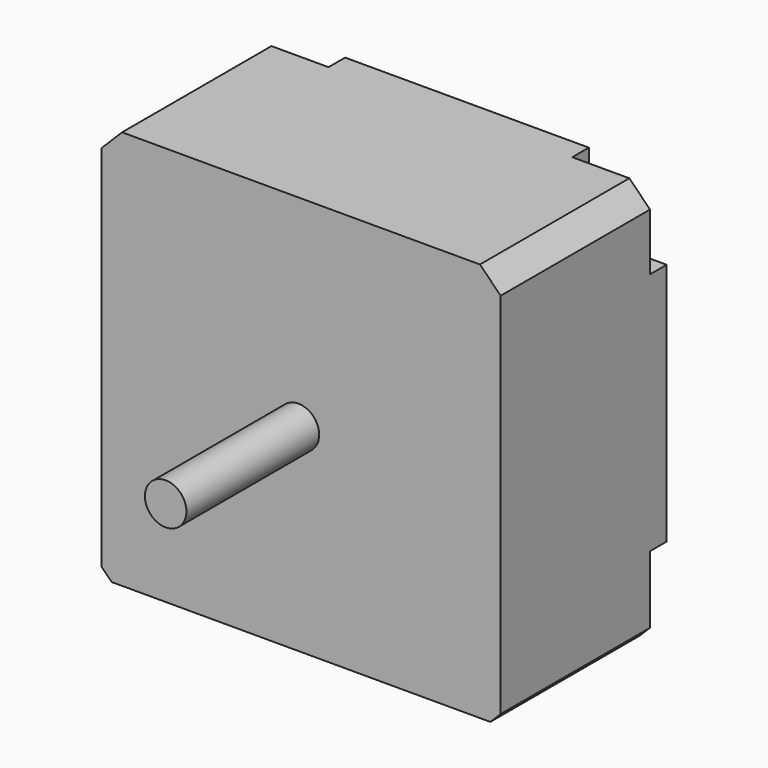
from build123d import *

# Parameters (mm, degrees)
CYLINDER007_R          = 2
CYLINDER007_DEPTH      = 36
CYLINDER007_ROLL_ANGLE = -90
CYLINDER004_R          = 5
CYLINDER004_DEPTH      = 31
CYLINDER004_ROLL_ANGLE = -90
CYLINDER002_R          = 10
CYLINDER002_DEPTH      = 11
CYLINDER002_ROLL_ANGLE = -90
CYLINDER003_R          = 5
CYLINDER003_DEPTH      = 19
CYLINDER003_ROLL_ANGLE = -90
CYLINDER001_R          = 5
CYLINDER001_DEPTH      = 31
CYLINDER001_ROLL_ANGLE = -90
BOX015_W               = 7.5
BOX015_H               = 3
BOX015_DEPTH           = 7.5
FILLET001_R            = 2
BOX017_W               = 7.5
BOX017_H               = 3
BOX017_DEPTH           = 7.5
FILLET002_R            = 2
BOX016_W               = 7.5
BOX016_H               = 3
BOX016_DEPTH           = 7.5
FILLET003_R            = 2
BOX014_W               = 7.5
BOX014_H               = 3
BOX014_DEPTH           = 7.5
FILLET_R               = 2
BOX012_W               = 38.5
BOX012_H               = 20
BOX012_DEPTH           = 38.5
CHAMFER_SIZE           = 2
CHAMFER001_1_SIZE      = 2
CHAMFER001_2_SIZE      = 1


with BuildPart() as eje_motor001:
    # Cylinder007 → Cylinder007 (new body)
    with BuildSketch(Plane.XY):
        Circle(CYLINDER007_R)
    extrude(amount=CYLINDER007_DEPTH)


with BuildPart() as eje_motor001_1:
    # Cylinder007 roll: moved
    add(eje_motor001.part.rotate(Axis((0, 0, 0), (1, 0, 0)), CYLINDER007_ROLL_ANGLE))


with BuildPart() as eje_motor001_2:
    # Cylinder007 placement: moved
    add(eje_motor001_1.part.moved(Location((379, 9, 11))))


with BuildPart() as cilindro015:
    # Cylinder004 → Cylinder004 (new body)
    with BuildSketch(Plane.XY):
        Circle(CYLINDER004_R)
    extrude(amount=CYLINDER004_DEPTH)


with BuildPart() as cilindro015_1:
    # Cylinder004 roll: moved
    add(cilindro015.part.rotate(Axis((0, 0, 0), (1, 0, 0)), CYLINDER004_ROLL_ANGLE))


with BuildPart() as cilindro015_2:
    # Cylinder004 placement: moved
    add(cilindro015_1.part.moved(Location((379, 55, 11))))


with BuildPart() as obj1:
    # Cylinder002 → Cylinder002 (new body)
    with BuildSketch(Plane.XY):
        Circle(CYLINDER002_R)
    extrude(amount=CYLINDER002_DEPTH)


with BuildPart() as obj1_1:
    # Cylinder002 roll: moved
    add(obj1.part.rotate(Axis((0, 0, 0), (1, 0, 0)), CYLINDER002_ROLL_ANGLE))


with BuildPart() as obj1_2:
    # Cylinder002 placement: moved
    add(obj1_1.part.moved(Location((379, 69, 11))))

    # Cut009: cut Cilindro015
    add(cilindro015_2.part, mode=Mode.SUBTRACT)


with BuildPart() as obj1_3:
    # Cut009 placement: moved
    add(obj1_2.part.moved(Location((0, -34, 0))))


with BuildPart() as dentro_motor:
    # Cylinder003 → Cylinder003 (new body)
    with BuildSketch(Plane.XY):
        Circle(CYLINDER003_R)
    extrude(amount=CYLINDER003_DEPTH)


with BuildPart() as dentro_motor_1:
    # Cylinder003 roll: moved
    add(dentro_motor.part.rotate(Axis((0, 0, 0), (1, 0, 0)), CYLINDER003_ROLL_ANGLE))


with BuildPart() as dentro_motor_2:
    # Cylinder003 placement: moved
    add(dentro_motor_1.part.moved(Location((379, 25, 11))))


with BuildPart() as cilindro012:
    # Cylinder001 → Cylinder001 (new body)
    with BuildSketch(Plane.XY):
        Circle(CYLINDER001_R)
    extrude(amount=CYLINDER001_DEPTH)


with BuildPart() as cilindro012_1:
    # Cylinder001 roll: moved
    add(cilindro012.part.rotate(Axis((0, 0, 0), (1, 0, 0)), CYLINDER001_ROLL_ANGLE))


with BuildPart() as cilindro012_2:
    # Cylinder001 placement: moved
    add(cilindro012_1.part.moved(Location((379, 21, 11))))


with BuildPart() as fillet001:
    # Box015 → Box015 (new body)
    with BuildSketch(Plane(origin=(391, 43, -8), x_dir=(1, 0, 0), z_dir=(0, 0, 1))):
        with Locations((3.75, 1.5)):
            Rectangle(BOX015_W, BOX015_H)
    extrude(amount=BOX015_DEPTH)

    # Fillet001
    fillet001_edges = [fillet001.edges().sort_by_distance(p)[0] for p in [
        (391, 44.5, -0.5),
    ]]
    fillet(fillet001_edges, radius=FILLET001_R)


with BuildPart() as fillet002:
    # Box017 → Box017 (new body)
    with BuildSketch(Plane(origin=(360, 43, -8), x_dir=(1, 0, 0), z_dir=(0, 0, 1))):
        with Locations((3.75, 1.5)):
            Rectangle(BOX017_W, BOX017_H)
    extrude(amount=BOX017_DEPTH)

    # Fillet002
    fillet002_edges = [fillet002.edges().sort_by_distance(p)[0] for p in [
        (367.5, 44.5, -0.5),
    ]]
    fillet(fillet002_edges, radius=FILLET002_R)


with BuildPart() as fillet003:
    # Box016 → Box016 (new body)
    with BuildSketch(Plane(origin=(360, 43, 23), x_dir=(1, 0, 0), z_dir=(0, 0, 1))):
        with Locations((3.75, 1.5)):
            Rectangle(BOX016_W, BOX016_H)
    extrude(amount=BOX016_DEPTH)

    # Fillet003
    fillet003_edges = [fillet003.edges().sort_by_distance(p)[0] for p in [
        (367.5, 44.5, 23),
    ]]
    fillet(fillet003_edges, radius=FILLET003_R)


with BuildPart() as fillet_body:
    # Box014 → Box014 (new body)
    with BuildSketch(Plane(origin=(391, 43, 23), x_dir=(1, 0, 0), z_dir=(0, 0, 1))):
        with Locations((3.75, 1.5)):
            Rectangle(BOX014_W, BOX014_H)
    extrude(amount=BOX014_DEPTH)

    # Fillet
    fillet_edges = [fillet_body.edges().sort_by_distance(p)[0] for p in [
        (391, 44.5, 23),
    ]]
    fillet(fillet_edges, radius=FILLET_R)


with BuildPart() as obj2:
    # Box012 → Box012 (new body)
    with BuildSketch(Plane(origin=(360, 25, -8), x_dir=(1, 0, 0), z_dir=(0, 0, 1))):
        with Locations((19.25, 10)):
            Rectangle(BOX012_W, BOX012_H)
    extrude(amount=BOX012_DEPTH)

    # Chamfer
    chamfer_edges = [obj2.edges().sort_by_distance(p)[0] for p in [
        (398.5, 35, 30.5),
    ]]
    chamfer(chamfer_edges, length=CHAMFER_SIZE)

    # Chamfer001 1
    chamfer001_1_edges = [obj2.edges().sort_by_distance(p)[0] for p in [
        (360, 35, 30.5),
    ]]
    chamfer(chamfer001_1_edges, length=CHAMFER001_1_SIZE)

    # Chamfer001 2
    chamfer001_2_edges = [obj2.edges().sort_by_distance(p)[0] for p in [
        (398.5, 35, -8),
        (360, 35, -8),
    ]]
    chamfer(chamfer001_2_edges, length=CHAMFER001_2_SIZE)

    # Cut005: cut Fillet body
    add(fillet_body.part, mode=Mode.SUBTRACT)

    # Cut006: cut Fillet003
    add(fillet003.part, mode=Mode.SUBTRACT)

    # Cut007: cut Fillet002
    add(fillet002.part, mode=Mode.SUBTRACT)

    # Cut008: cut Fillet001
    add(fillet001.part, mode=Mode.SUBTRACT)

    # Cut010: cut Cilindro012
    add(cilindro012_2.part, mode=Mode.SUBTRACT)

    # Fusion007: union obj1, dentro motor
    add(obj1_3.part)
    add(dentro_motor_2.part)

    # Fusion006: union eje motor001
    add(eje_motor001_2.part)


with BuildPart() as obj2_1:
    # Fusion006 placement: moved
    add(obj2.part.moved(Location((12.2, 0, 0))))


solid = obj2_1.part
